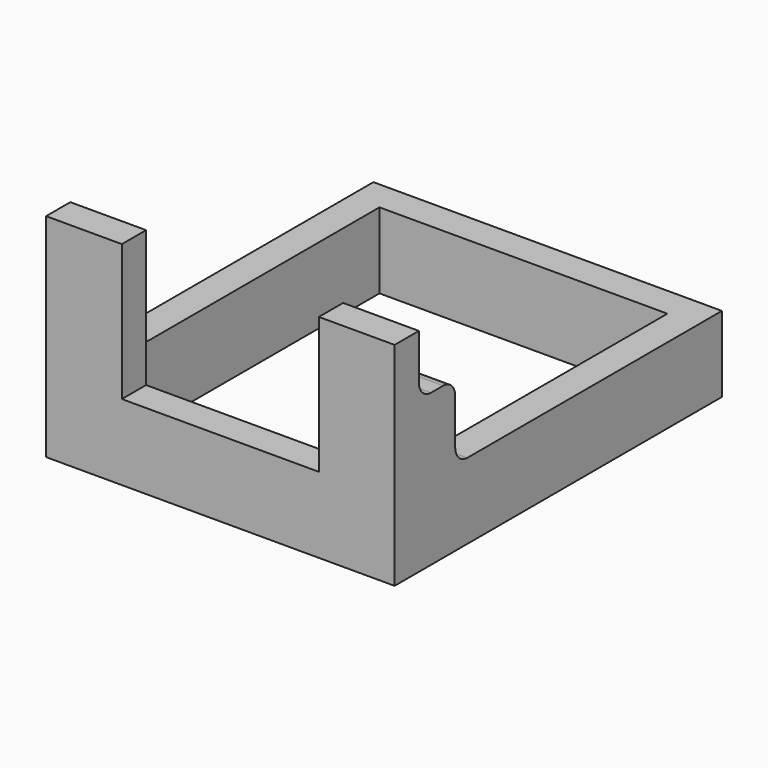
from build123d import *

# Parameters (mm, degrees)
F0_W     = 23
F0_H     = 27
F0_W_2   = 19
F0_H_2   = 23
F1_DEPTH = 5
F3_DEPTH = 5
F5_DEPTH = 5
F7_DEPTH = 4
F8_W     = 5
F8_H     = 2
F9_DEPTH = 4
F10_R    = 1


with BuildPart() as f1:
    # F0 (on Top) → F1 (new body)
    with BuildSketch(Plane.XY):
        with Locations((9.5, 11.5)):
            Rectangle(F0_W, F0_H)
        with Locations((9.5, 11.5)):
            Rectangle(F0_W_2, F0_H_2, mode=Mode.SUBTRACT)
    extrude(amount=F1_DEPTH)

    # F2 (on face) → F3 (join)
    with BuildSketch(Plane.XY.offset(5)):
        Polygon((3, 0), (0, 0), (0, 3), (-2, 3), (-2, -2), (3, -2), align=None)
    extrude(amount=F3_DEPTH)

    # F4 (on face) → F5 (join)
    with BuildSketch(Plane.XY.offset(5)):
        Polygon((19, 3), (19, 0), (16, 0), (16, -2), (21, -2), (21, 3), align=None)
    extrude(amount=F5_DEPTH)

    # F6 (on face) → F7 (join)
    with BuildSketch(Plane.XY.offset(10)):
        Polygon((3, 0), (0, 0), (-2, 0), (-2, -2), (3, -2), align=None)
    extrude(amount=F7_DEPTH)

    # F8 (on face) → F9 (join)
    with BuildSketch(Plane.XY.offset(10)):
        with Locations((18.5, -1)):
            Rectangle(F8_W, F8_H)
    extrude(amount=F9_DEPTH)

    # F10
    f10_edges = [f1.edges().sort_by_distance(p)[0] for p in [
        (20, 3, 5),
        (20, 0, 10),
        (20, 3, 10),
        (-1, 0, 10),
        (-1, 3, 10),
        (-1, 3, 5),
    ]]
    fillet(f10_edges, radius=F10_R)


solid = f1.part
